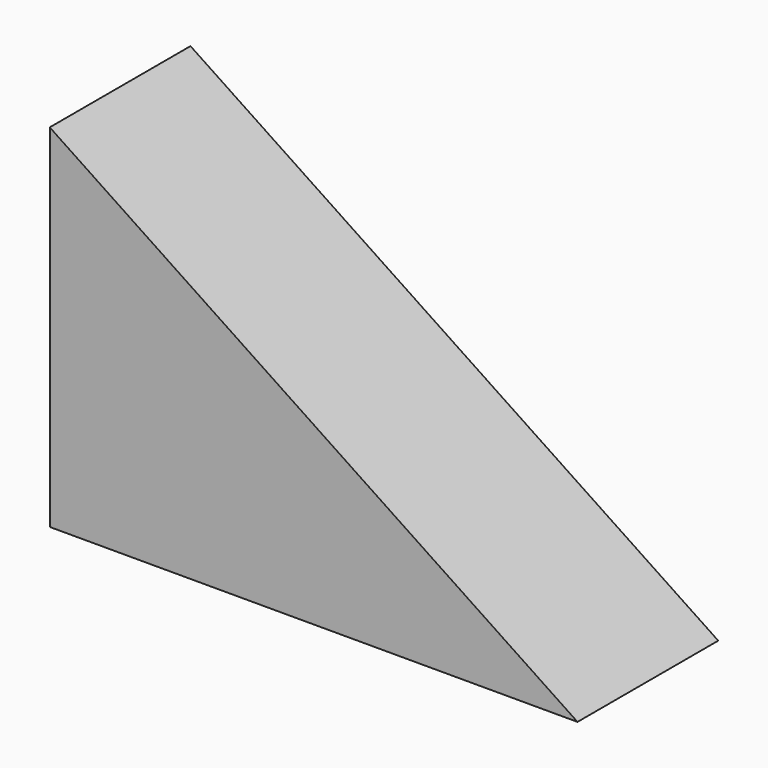
from build123d import *

# Parameters (mm, degrees)
F1_DEPTH = 20
F2_R     = 4
F3_DEPTH = 5


with BuildPart() as f1:
    # F0 (on Front) → F1 (new body)
    with BuildSketch(Plane.XZ):
        Polygon((0, 40), (0, 0), (60, 0), align=None)
    extrude(amount=F1_DEPTH)

    # F2 (on face) → F3 (cut)
    with BuildSketch(Plane(origin=(0, 0, 0), x_dir=(0, -1, 0), z_dir=(-1, 0, 0))):
        with Locations((10, 7)):
            Circle(F2_R)
        with Locations((10, 27)):
            Circle(F2_R)
    extrude(amount=-F3_DEPTH, mode=Mode.SUBTRACT)


solid = f1.part
